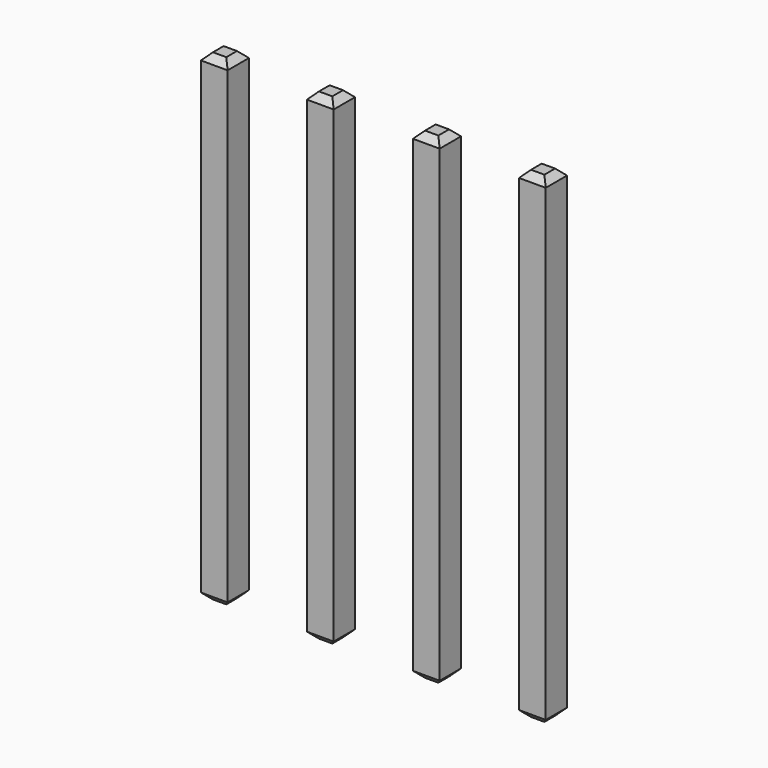
from build123d import *

# Parameters (mm, degrees)
SKETCH207_W       = 0.64
SKETCH207_H       = 11.54
PAD062_DEPTH      = 0.32
PAD062_DEPTH_BACK = 0.32
CHAMFER012_SIZE   = 0.16
ARRAY001_X_COUNT  = 4
ARRAY001_X_PITCH  = 2.54


with BuildPart() as part:
    # Sketch207 → Pad062 (new body, two sides)
    with BuildSketch(Plane.XZ) as pad062_sk:
        with Locations((0, 2.77)):
            Rectangle(SKETCH207_W, SKETCH207_H)
    extrude(amount=PAD062_DEPTH)
    extrude(pad062_sk.sketch, amount=-PAD062_DEPTH_BACK)

    # Chamfer012
    chamfer012_edges = [part.edges().sort_by_distance(p)[0] for p in [
        (0.32, 0, 8.54),
        (-0.32, 0, 8.54),
        (0, 0.32, 8.54),
        (0, -0.32, 8.54),
        (-0.32, 0, -3),
        (0.32, 0, -3),
        (0, 0.32, -3),
        (0, -0.32, -3),
    ]]
    chamfer(chamfer012_edges, length=CHAMFER012_SIZE)

    # Array001 X: part ×4


with BuildPart() as part_1:
    add(part.part)
    with Locations(*[(i * ARRAY001_X_PITCH, 0, 0) for i in range(1, ARRAY001_X_COUNT)]):
        add(part.part)


solid = part_1.part
